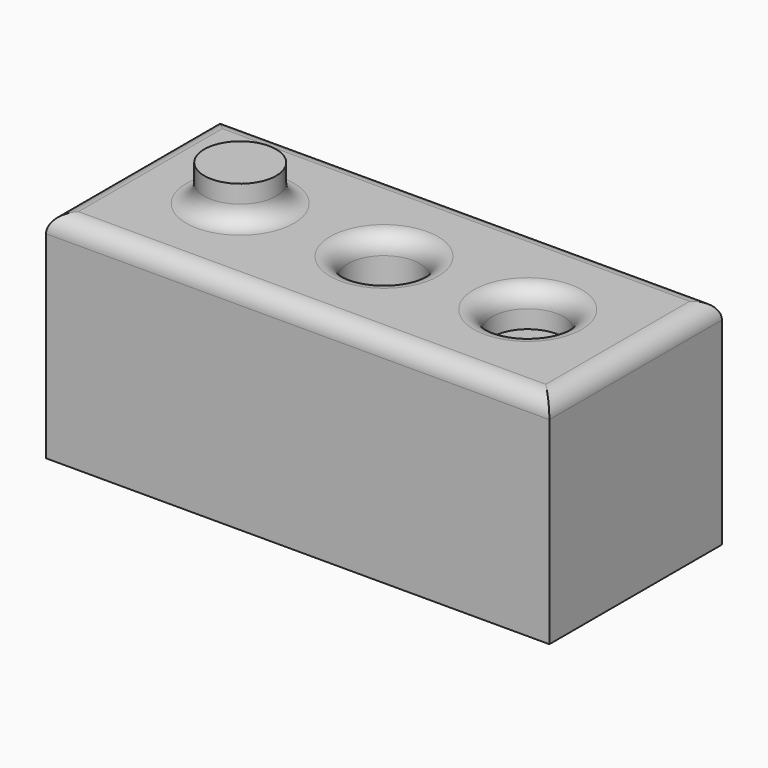
from build123d import *

# Parameters (mm, degrees)
F0_W     = 140
F0_H     = 60
F1_DEPTH = 60
F2_R     = 10
F5_DEPTH = 10
F3_R     = 10
F6_DEPTH = 10
F4_R     = 10
F7_DEPTH = 79.5
F8_R     = 5


with BuildPart() as f1:
    # F0 (on Top) → F1 (new body)
    with BuildSketch(Plane.XY):
        Rectangle(F0_W, F0_H)
    extrude(amount=F1_DEPTH)

    # F2 (on face) → F5 (join)
    with BuildSketch(Plane.XY.offset(60)):
        with Locations((-40, 0)):
            Circle(F2_R)
    extrude(amount=F5_DEPTH)

    # F3 (on face) → F6 (cut)
    with BuildSketch(Plane.XY.offset(60)):
        with Locations((40, 0)):
            Circle(F3_R)
    extrude(amount=-F6_DEPTH, mode=Mode.SUBTRACT)

    # F4 (on face) → F7 (cut)
    with BuildSketch(Plane.XY.offset(60)):
        Circle(F4_R)
    extrude(amount=-F7_DEPTH, mode=Mode.SUBTRACT)

    # F8
    f8_edges = [f1.edges().sort_by_distance(p)[0] for p in [
        (-70, 0, 60),
        (0, -30, 60),
        (70, 0, 60),
        (0, 30, 60),
        (-50, 0, 60),
        (-10, 0, 60),
        (30, 0, 60),
    ]]
    fillet(f8_edges, radius=F8_R)


solid = f1.part
